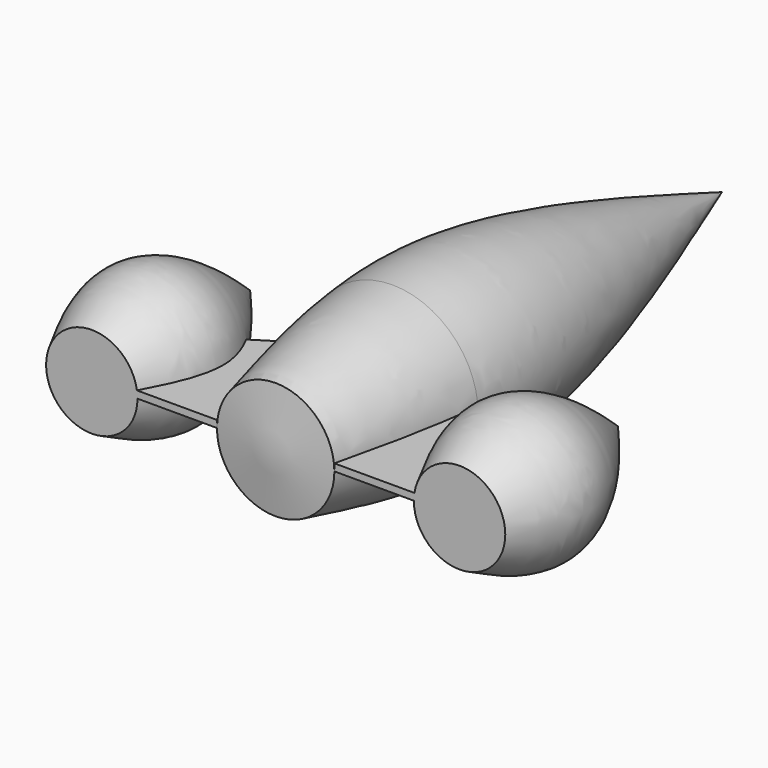
from build123d import *

# Parameters (mm, degrees)
F4_DEPTH = 2


with BuildPart() as f1:
    # F0 (on Top) → F1 (revolve)
    with BuildSketch(Plane.XY):
        with BuildLine():
            Line((52.0364381373, 23.6698053777), (52.0364381373, 0))
            Line((52.0364381373, 0), (64.9692863226, 0))
            add(Edge.make_bspline(
                [(64.9692863226, 0), (69.0828451172, 7.951201135), (78.2090455008, 25.591463125), (61.3154088208, 45.2204956904), (52.0364381373, 56.0019053519)],
                knots=[0, 0, 0, 0, 0.4507416692, 1, 1, 1, 1], degree=3))
            Line((52.0364381373, 56.0019053519), (52.0364381373, 23.6698053777))
        make_face()
    revolve(axis=Axis((52.0364381373, 28.0009526759, 0), (0, 1, 0)))


with BuildPart() as f2:
    # F0 (on Top) → F2 (revolve)
    with BuildSketch(Plane.XY):
        with BuildLine():
            Line((0, 157.8440294508), (0, -2.1559705492))
            Line((0, -2.1559705492), (16.6119824722, 0))
            add(Edge.make_bspline(
                [(16.6119824722, 0), (19.7728153364, 13.4997835736), (22.9336482005, 26.9995671473), (24.2918724571, 41.2721293193)],
                knots=[0, 0, 0, 0, 0.2956725657, 0.2956725657, 0.2956725657, 0.2956725657], degree=3))
            add(Edge.make_bspline(
                [(24.2918724571, 41.2721293193), (25.0032472157, 48.7474342398), (25.9896868356, 83.7105375917), (11.389816182, 125.3554946506), (0, 157.8440294508)],
                knots=[0.2956725657, 0.2956725657, 0.2956725657, 0.2956725657, 0.4505321178, 1, 1, 1, 1], degree=3))
        make_face()
    revolve(axis=Axis((0, 77.8440294508, 0), (0, 1, 0)))


with BuildPart() as f3_1:
    # F3: instance of F1
    add(f1.part.mirror(Plane.YZ))


with BuildPart() as f1_1:
    add(f1.part)

    add(f2.part)  # F4 merges F2
    # F0 (on Top) → F4 (join)
    with BuildSketch(Plane.XY):
        with BuildLine():
            add(Edge.make_bspline(
                [(16.6119824722, 0), (19.7728153364, 13.4997835736), (22.9336482005, 26.9995671473), (24.2918724571, 41.2721293193)],
                knots=[0, 0, 0, 0, 0.2956725657, 0.2956725657, 0.2956725657, 0.2956725657], degree=3))
            Line((16.6119824722, 0), (52.0364381373, 0))
            Line((52.0364381373, 0), (52.0364381373, 23.6698053777))
            Line((52.0364381373, 23.6698053777), (24.2918724571, 41.2721293193))
        make_face()
    extrude(amount=F4_DEPTH)



with BuildPart() as f1_2:
    add(f1_1.part)

    add(f3_1.part)  # F5 merges F3_1
    # F5: F1 across plane
    add(f1_1.part.mirror(Plane.YZ))


solid = f1_2.part
